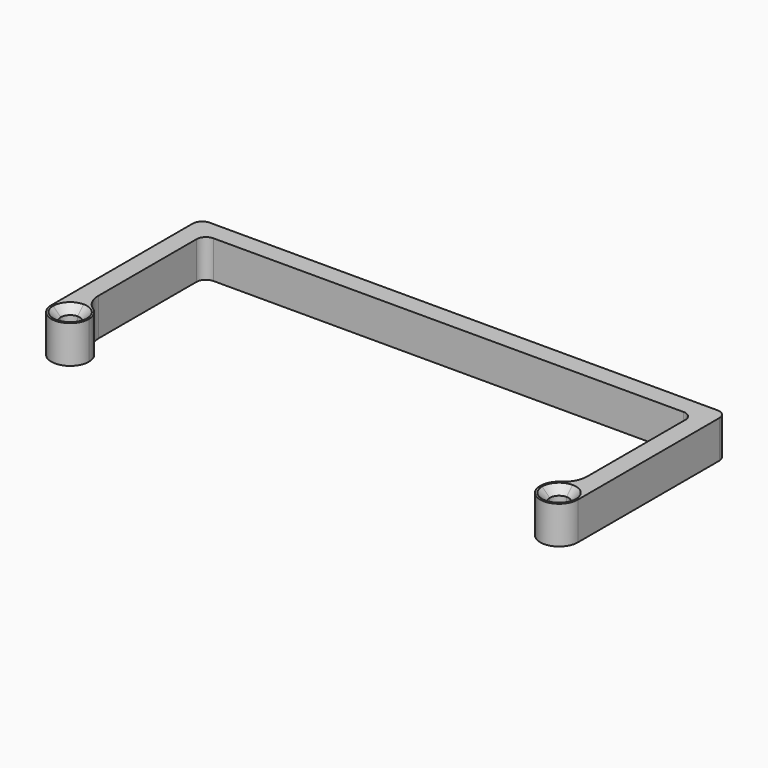
from build123d import *

# Parameters (mm, degrees)
F1_DEPTH = 8
F2_R     = 5
F3_R     = 2
F4_SIZE  = 1.6


with BuildPart() as f1:
    # F0 (on Top) → F1 (new body)
    with BuildSketch(Plane.XY):
        with BuildLine():
            Line((-52, 29.6875580251), (0, 29.6875580251))
            Line((0, 29.6875580251), (0, 33.6875580251))
            Line((0, 33.6875580251), (-56, 33.6875580251))
            Line((-56, 33.6875580251), (-56, -5.9124419749))
            ThreePointArc((-56, -5.9124419749), (-54.8284271247, -3.0840148501), (-52, -1.9124419749))
            Line((-52, -1.9124419749), (-52, 29.6875580251))
        make_face()
        with BuildLine():
            Line((-52, -3.9124419749), (-52, -1.9124419749))
            ThreePointArc((-52, -1.9124419749), (-54.8284271247, -3.0840148501), (-56, -5.9124419749))
            Line((-56, -5.9124419749), (-54, -5.9124419749))
            ThreePointArc((-54, -5.9124419749), (-53.4142135624, -4.4982284125), (-52, -3.9124419749))
        make_face()
        with BuildLine():
            ThreePointArc((-48, -5.9124419749), (-49.1715728753, -3.0840148501), (-52, -1.9124419749))
            Line((-52, -1.9124419749), (-52, -3.9124419749))
            ThreePointArc((-52, -3.9124419749), (-50.5857864376, -4.4982284125), (-50, -5.9124419749))
            ThreePointArc((-50, -5.9124419749), (-52, -7.9124419749), (-54, -5.9124419749))
            Line((-54, -5.9124419749), (-56, -5.9124419749))
            ThreePointArc((-56, -5.9124419749), (-52, -9.9124419749), (-48, -5.9124419749))
        make_face()
    extrude(amount=F1_DEPTH)

    # F2
    f2_edges = [f1.edges().sort_by_distance(p)[0] for p in [
        (-52, -1.912442, 4),
    ]]
    fillet(f2_edges, radius=F2_R)

    # F3
    f3_edges = [f1.edges().sort_by_distance(p)[0] for p in [
        (-52, 29.687558, 4),
        (-56, 33.687558, 4),
    ]]
    fillet(f3_edges, radius=F3_R)

    # F4
    f4_edges = [f1.edges().sort_by_distance(p)[0] for p in [
        (-52, -7.912442, 8),
    ]]
    chamfer(f4_edges, length=F4_SIZE)

    # F5: F1 across plane


with BuildPart() as f1_1:
    add(f1.part)
    add(f1.part.mirror(Plane.YZ))


solid = f1_1.part
